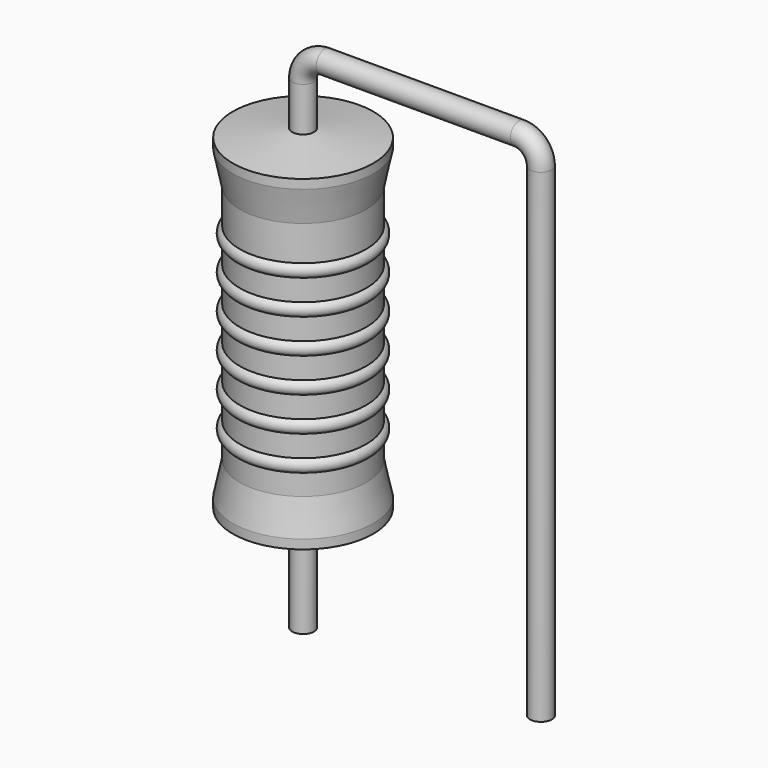
from build123d import *

# Parameters (mm, degrees)
SKETCH_R = 0.35


with BuildPart() as revolution:
    # Sketch002 → Revolution (revolve)
    with BuildSketch(Plane.XZ):
        Polygon((0, 0.1), (0, 11.1), (0.2625, 11.1), (2.25, 10.825), (2.25, 10.5325), (2.025, 9.45), (2.025, 1.75), (2.25, 0.6675), (2.25, 0.375), (0.2625, 0.1), align=None)
    revolve(axis=Axis((0, 0, 0), (0, 0, 1)))


with BuildPart() as sweep_body:
    # Sweep: sweep along a path in Sketch001
    with BuildLine(Plane.XZ) as sweep_path:
        Line((0, -3), (0, 12.5))
        ThreePointArc((0, 12.5), (0.205022, 12.994972), (0.699992, 13.2))
        Line((0.699992, 13.2), (6.92, 13.2))
        ThreePointArc((6.92, 13.2), (7.414975, 12.994975), (7.62, 12.5))
        Line((7.62, 12.5), (7.62, -3))
    # Sketch → Sweep (sweep)
    with BuildSketch(Plane.XY.offset(-2)):
        Circle(SKETCH_R)
    sweep(path=sweep_path.line)


with BuildPart() as obj1:
    # Sketch003 → Revolution001 (revolve)
    with BuildSketch(Plane.XZ):
        with BuildLine():
            Line((1.8, 9), (1.8, 1.75))
            Line((1.8, 1.75), (1.935, 1.75))
            Line((1.935, 1.75), (1.935, 2.4))
            ThreePointArc((1.935, 2.4), (2.16, 2.625), (1.935, 2.85))
            Line((1.935, 2.85), (1.935, 3.5))
            ThreePointArc((1.935, 3.5), (2.16, 3.725), (1.935, 3.95))
            Line((1.935, 3.95), (1.935, 4.6))
            ThreePointArc((1.935, 4.6), (2.16, 4.825), (1.935, 5.05))
            Line((1.935, 5.05), (1.935, 5.7))
            ThreePointArc((1.935, 5.7), (2.16, 5.925), (1.935, 6.15))
            Line((1.935, 6.15), (1.935, 6.8))
            ThreePointArc((1.935, 6.8), (2.16, 7.025), (1.935, 7.25))
            Line((1.935, 7.25), (1.935, 7.9))
            ThreePointArc((1.935, 7.9), (2.16, 8.125), (1.935, 8.35))
            Line((1.935, 9), (1.935, 8.35))
            Line((1.8, 9), (1.935, 9))
        make_face()
    revolve(axis=Axis((0, 0, 0), (0, 0, 1)))

    # obj1: union Revolution, Sweep body
    add(revolution.part)
    add(sweep_body.part)


solid = obj1.part
